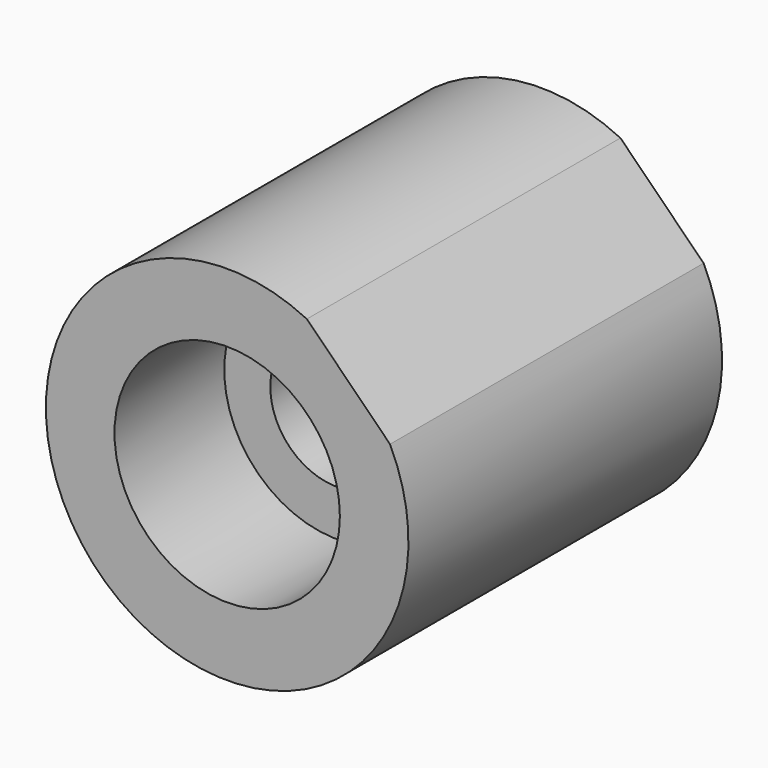
from build123d import *

# Parameters (mm, degrees)
F0_R     = 4.699
F0_R_2   = 1.7272
F1_DEPTH = 10.16
F3_DEPTH = 10.161
F4_R     = 2.921
F4_R_2   = 1.7272
F4_R_3   = 1.7145
F5_DEPTH = 3.556


with BuildPart() as f1:
    # F0 (on Front) → F1 (new body)
    with BuildSketch(Plane.XZ):
        Circle(F0_R)
        Circle(F0_R_2, mode=Mode.SUBTRACT)
    extrude(amount=F1_DEPTH)

    # F2 (on face) → F3 (cut, through all)
    with BuildSketch(Plane.XZ.offset(10.16)):
        with BuildLine():
            ThreePointArc((4.2207203769, 2.0654589078), (3.3226947648, 3.3226947648), (2.0654589078, 4.2207203769))
            Line((2.0654589078, 4.2207203769), (4.2207203769, 2.0654589078))
        make_face()
    extrude(amount=-F3_DEPTH, mode=Mode.SUBTRACT)

    # F4 (on face) → F5 (cut)
    with BuildSketch(Plane.XZ.offset(10.16)):
        Circle(F4_R)
        Circle(F4_R_2, mode=Mode.SUBTRACT)
        Circle(F4_R_2)
        Circle(F4_R_3, mode=Mode.SUBTRACT)
    extrude(amount=-F5_DEPTH, mode=Mode.SUBTRACT)


solid = f1.part
